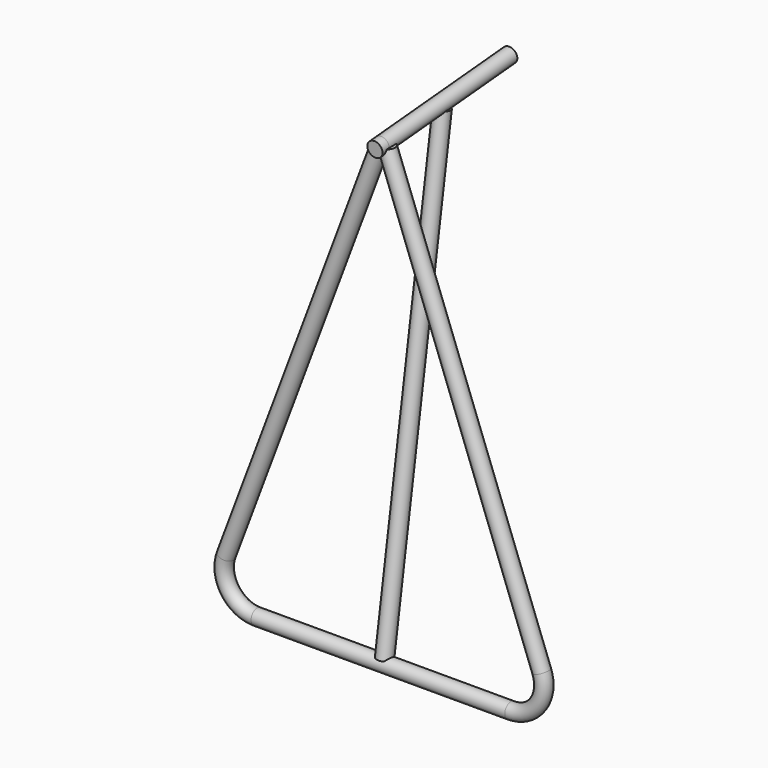
from build123d import *

# Parameters (mm, degrees)
F3_R           = 9
F7_W           = 211.4251245066
F7_H           = 70.145696709
F8_DEPTH       = 12.5
F9_R           = 9
F10_DEPTH      = 190
F10_DEPTH_BACK = 10
F16_START      = 5
F15_R          = 9
F16_DEPTH      = 545


with BuildPart() as f4:
    # F4: sweep along a path in F1
    with BuildLine(Plane.XZ) as f4_path:
        Line((-150, -39), (150, -39))
        ThreePointArc((150, -39), (182.0556281104, -22.2134352689), (186.5161856429, 13.6955535155))
        Line((186.5161856429, 13.6955535155), (0, 511))
        Line((0, 511), (-186.5161856429, 13.6955535155))
        ThreePointArc((-186.5161856429, 13.6955535155), (-182.0556281104, -22.2134352689), (-150, -39))
    # F3 (on line) → F4 (sweep)
    with BuildSketch(Plane.YZ.offset(150)):
        with Locations((0, -39)):
            Circle(F3_R)
    sweep(path=f4_path.line, transition=Transition.RIGHT)

    # F7 (on Front) → F8 (cut, symmetric)
    with BuildSketch(Plane.XZ):
        with Locations((16.5445394814, 537.0728483545)):
            Rectangle(F7_W, F7_H)
    extrude(amount=F8_DEPTH, both=True, mode=Mode.SUBTRACT)

    # F9 (on face) → F10 (join, two sides)
    with BuildSketch(Plane(origin=(0, 40.1639663204, 3.5138917353), x_dir=(-1, 0, 0), z_dir=(0, 0.9961946981, 0.0871557427))) as f10_sk:
        with Locations((0, 500.8241835071)):
            Circle(F9_R)
    extrude(amount=F10_DEPTH)
    extrude(f10_sk.sketch, amount=-F10_DEPTH_BACK)


with BuildPart() as f16:
    # F15 (on line) → F16 (new body)
    with BuildSketch(Plane(origin=(0, -6.0258313903, -38.0456020678), x_dir=(1, 0, 0), z_dir=(0, 0.156434465, 0.9876883406)).offset(F16_START)):
        with Locations((0, 6.1009441366)):
            Circle(F15_R)
    extrude(amount=F16_DEPTH)

    # F17: cut F4
    add(f4.part, mode=Mode.SUBTRACT)


solid = Compound([f4.part, f16.part])
